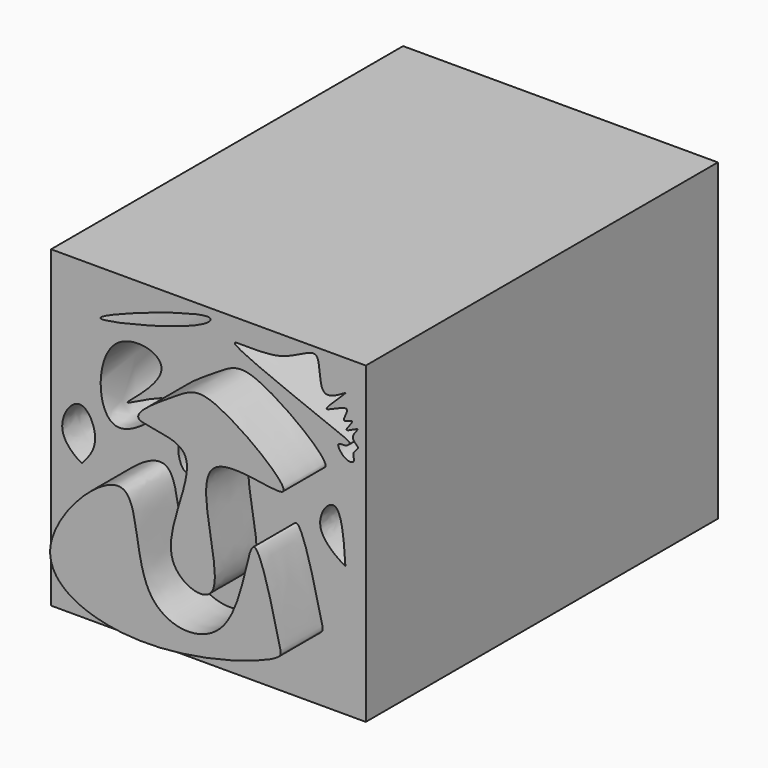
from build123d import *

# Parameters (mm, degrees)
F0_W     = 152.2696316242
F0_H     = 151.767462492
F1_DEPTH = 85.852
F3_DEPTH = 25.4
F4_DEPTH = 127
F5_DEPTH = 127
F6_DEPTH = 25.4


with BuildPart() as f1:
    # F0 (on Front) → F1 (new body)
    with BuildSketch(Plane.XZ):
        Rectangle(F0_W, F0_H)
    extrude(amount=F1_DEPTH)

    # F2 (on face) → F3 (join)
    with BuildSketch(Plane.XZ.offset(85.852)):
        with BuildLine():
            add(Edge.make_bspline(
                [(-45.1750345528, 45.4761981964), (-54.9759224721, 36.7640361487), (-53.4764244468, -10.6306056769), (-2.2861173121, 43.2025231052), (-55.9645178604, 12.0239199511), (-6.6511398541, 45.9754046964), (-37.250856103, 52.5201239425), (-45.1750345528, 45.4761981964)],
                knots=[0, 0, 0, 0, 0.2278239664, 0.4435934256, 0.6200428521, 0.8158005907, 1, 1, 1, 1], degree=3))
        make_face()
        with BuildLine():
            add(Edge.make_bspline(
                [(3.8147799205, 49.4917556643), (-3.7765087934, 44.6686232117), (-26.9753414979, 30.2687276967), (26.2870063287, 35.3656823237), (-12.3797485127, -22.9130434091), (37.4224120396, -40.1094176462), (0.761487405, 43.2521021518), (80.3255742687, 13.2655962495), (19.8583183654, 60.0448051956), (10.851853259, 53.9627668548), (3.8147799205, 49.4917556643)],
                knots=[0, 0, 0, 0, 0.1059750739, 0.2128704803, 0.3662121258, 0.4662110863, 0.6272597451, 0.7566559923, 0.9017618227, 1, 1, 1, 1], degree=3))
        make_face()
        with BuildLine():
            add(Edge.make_bspline(
                [(-56.2178194523, -35.0357480347), (-57.3233017837, -51.3524510712), (-10.5093553597, -69.2229174734), (56.5551632914, -46.8398341729), (54.8171969708, -40.7711699837), (39.8184009867, 25.0094692538), (36.9445805635, -52.8909824882), (-18.9776463472, -49.4960427128), (-9.1701559307, 27.5677283571), (-55.1200424982, -18.8327748598), (-56.2178194523, -35.0357480347)],
                knots=[0, 0, 0, 0, 0.1433419792, 0.3060825513, 0.3544697981, 0.4794928892, 0.6075995621, 0.7252624079, 0.8576571359, 1, 1, 1, 1], degree=3))
        make_face()
        with BuildLine():
            add(Edge.make_bspline(
                [(-14.0544548631, 12.9501754418), (-15.5838492203, 11.1472479658), (-12.0231908838, -3.0032140805), (-5.9675090396, 9.6303752979), (-12.8435526279, 14.3776482844), (-14.0544548631, 12.9501754418)],
                knots=[0, 0, 0, 0, 0.3847635122, 0.6953624193, 1, 1, 1, 1], degree=3))
        make_face()
        with BuildLine():
            add(Edge.make_bspline(
                [(-62.2411556542, 14.3556213006), (-66.7827536505, 14.4630337058), (-76.7508853215, -1.0302211406), (-61.0685354265, -10.8604468452), (-61.1701812198, -9.8178216454), (-50.6507289871, -0.7269778669), (-57.7653199031, 14.2497642249), (-62.2411556542, 14.3556213006)],
                knots=[0, 0, 0, 0, 0.2579966134, 0.4941446753, 0.5279394788, 0.7457391723, 1, 1, 1, 1], degree=3))
        make_face()
        with BuildLine():
            add(Edge.make_bspline(
                [(61.4380463958, 10.9423967078), (58.3239602938, 12.8941336712), (46.9097347611, -2.0316850929), (66.6653777898, -13.1502504445), (65.8967141668, -12.2871243144), (65.6490629957, 8.3031643672), (61.4380463958, 10.9423967078)],
                knots=[0, 0, 0, 0, 0.275292719, 0.5936730939, 0.6277359805, 1, 1, 1, 1], degree=3))
        make_face()
        with BuildLine():
            add(Edge.make_bspline(
                [(0, 71.7781037092), (2.0219458404, 71.5218766146), (-2.7248634074, 64.4262927723), (-93.6144204832, 42.0938049981), (-6.9736496619, 72.6618256945), (0, 71.7781037092)],
                knots=[0, 0, 0, 0, 0.1284826479, 0.5568659871, 1, 1, 1, 1], degree=3))
        make_face()
        with BuildLine():
            add(Edge.make_bspline(
                [(65.0520473719, 42.2637499869), (54.6744369979, 46.6008755587), (-9.3079977574, 70.4952675741), (36.3826668482, 61.677983264), (56.0476701892, 80.9078233822), (51.8453407478, 50.3062844727), (74.0597568007, 67.312716205), (48.5717201896, 45.0742418673), (71.4664697922, 58.8250943652), (62.6919708076, 46.4581159819), (72.6314903652, 52.3697309811), (63.1001339558, 42.4230527083), (75.4902094672, 50.0077560259), (67.3684806515, 42.687225646), (74.257283421, 39.7028508568), (68.996590855, 37.1771395928), (71.548484217, 32.5136339372), (65.907103151, 31.8809030835), (60.8632745977, 39.2691305854), (66.4454431933, 38.0736104533), (69.0425004702, 40.3788185295), (67.7717245304, 41.1271124638), (65.0520473719, 42.2637499869)],
                knots=[0, 0, 0, 0, 0.1317511424, 0.2125717264, 0.2890311612, 0.3570214013, 0.4124185431, 0.4759788663, 0.5315470602, 0.5720241233, 0.6065523594, 0.6461635164, 0.6875210483, 0.7256735591, 0.7621196078, 0.7946217487, 0.82786667, 0.8620462117, 0.9055378578, 0.9380947972, 0.9654717647, 1, 1, 1, 1], degree=3))
        make_face()
    extrude(amount=F3_DEPTH)

    # F4 (add): faces of the model
    f4_faces = [f1.faces().sort_by_distance(p)[0] for p in [
        (0.0906757556, -85.852, -0.3479160925),
        (41.1519703516, -111.252, -6.9728138258),
    ]]
    extrude(f4_faces, amount=F4_DEPTH)

    # F5 (add): a face of the model
    f5_faces = [f1.faces().sort_by_distance(p)[0] for p in [
        (17.6028858592, -111.252, 20.438025834),
    ]]
    extrude(f5_faces, amount=F5_DEPTH)

    # F6 (add): a face of the model
    f6_faces = [f1.faces().sort_by_distance(p)[0] for p in [
        (47.1858944282, -111.252, 56.426423948),
    ]]
    extrude(f6_faces, amount=F6_DEPTH)


solid = f1.part
